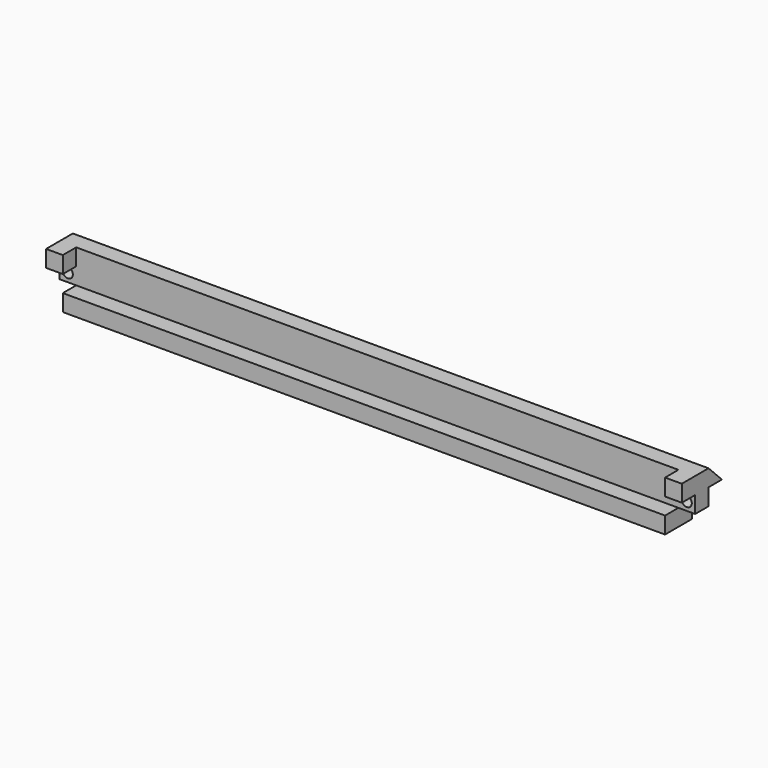
from build123d import *

# Parameters (mm, degrees)
F0_W      = 180
F0_H      = 10
F1_DEPTH  = 15
F2_W      = 180
F2_H      = 10
F3_DEPTH  = 5
F4_W      = 5
F4_H      = 10
F5_DEPTH  = 5
F6_R      = 1.5
F7_DEPTH  = 25
F8_W      = 90
F8_H      = 10
F9_DEPTH  = 25
F10_W     = 5
F10_H     = 5
F11_DEPTH = 5


with BuildPart() as f1:
    # F0 (on Top) → F1 (new body)
    with BuildSketch(Plane.XY):
        Rectangle(F0_W, F0_H)
    extrude(amount=F1_DEPTH)

    # F2 (on face) → F3 (cut)
    with BuildSketch(Plane.XZ.offset(5)):
        with Locations((0, 10)):
            Rectangle(F2_W, F2_H)
    extrude(amount=-F3_DEPTH, mode=Mode.SUBTRACT)

    # F4 (on face) → F5 (join)
    with BuildSketch(Plane(origin=(-90, 0, 0), x_dir=(0, -1, 0), z_dir=(-1, 0, 0))):
        with Locations((-2.5, 10)):
            Rectangle(F4_W, F4_H)
    extrude(amount=F5_DEPTH)

    # F6 (on face) → F7 (cut)
    with BuildSketch(Plane.XZ):
        with Locations((-92.5, 7.5)):
            Circle(F6_R)
    extrude(amount=-F7_DEPTH, mode=Mode.SUBTRACT)

    # F8 (on face) → F9 (cut)
    with BuildSketch(Plane(origin=(0, 0, 0), x_dir=(1, 0, 0), z_dir=(0, 0, -1))):
        with Locations((45, 0)):
            Rectangle(F8_W, F8_H)
    extrude(amount=-F9_DEPTH, mode=Mode.SUBTRACT)

    # F10 (on face) → F11 (join)
    with BuildSketch(Plane(origin=(-95, 0, 0), x_dir=(0, -1, 0), z_dir=(-1, 0, 0))):
        Polygon((-5, 10), (-5, 15), (-10, 10), align=None)
        with Locations((2.5, 12.5)):
            Rectangle(F10_W, F10_H)
    extrude(amount=-F11_DEPTH)

    # F12: F1 across face


with BuildPart() as f1_1:
    add(f1.part)
    add(f1.part.mirror(Plane(origin=(0, 1.25, 6.25), x_dir=(0, 1, 0), z_dir=(1, 0, 0))))


solid = f1_1.part
